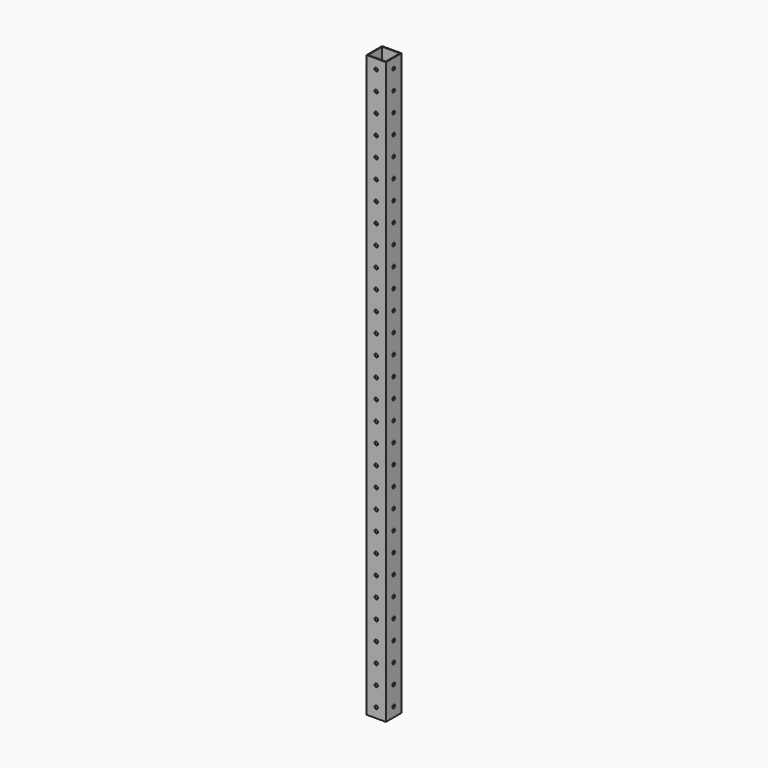
from build123d import *

# Parameters (mm, degrees)
F0_W     = 25.4
F0_H     = 25.4
F0_W_2   = 23.368
F0_H_2   = 23.368
F1_DEPTH = 762
F2_R     = 2.1844
F3_DEPTH = 25.4
F4_R     = 2.1844
F5_DEPTH = 25.4


with BuildPart() as f1:
    # F0 (on Top) → F1 (new body)
    with BuildSketch(Plane.XY):
        with Locations((12.7, -12.7)):
            Rectangle(F0_W, F0_H)
        with Locations((12.7, -12.7)):
            Rectangle(F0_W_2, F0_H_2, mode=Mode.SUBTRACT)
    extrude(amount=F1_DEPTH)

    # F2 (on face) → F3 (cut)
    with BuildSketch(Plane.XZ.offset(25.4)):
        with Locations((12.7, 12.7)):
            Circle(F2_R)
        with Locations((12.7, 38.1)):
            Circle(F2_R)
        with Locations((12.7, 241.3)):
            Circle(F2_R)
        with Locations((12.7, 215.9)):
            Circle(F2_R)
        with Locations((12.7, 190.5)):
            Circle(F2_R)
        with Locations((12.7, 165.1)):
            Circle(F2_R)
        with Locations((12.7, 139.7)):
            Circle(F2_R)
        with Locations((12.7, 114.3)):
            Circle(F2_R)
        with Locations((12.7, 88.9)):
            Circle(F2_R)
        with Locations((12.7, 63.5)):
            Circle(F2_R)
        with Locations((12.7, 266.7)):
            Circle(F2_R)
        with Locations((12.7, 292.1)):
            Circle(F2_R)
        with Locations((12.7, 317.5)):
            Circle(F2_R)
        with Locations((12.7, 342.9)):
            Circle(F2_R)
        with Locations((12.7, 368.3)):
            Circle(F2_R)
        with Locations((12.7, 393.7)):
            Circle(F2_R)
        with Locations((12.7, 419.1)):
            Circle(F2_R)
        with Locations((12.7, 444.5)):
            Circle(F2_R)
        with Locations((12.7, 469.9)):
            Circle(F2_R)
        with Locations((12.7, 495.3)):
            Circle(F2_R)
        with Locations((12.7, 520.7)):
            Circle(F2_R)
        with Locations((12.7, 546.1)):
            Circle(F2_R)
        with Locations((12.7, 571.5)):
            Circle(F2_R)
        with Locations((12.7, 596.9)):
            Circle(F2_R)
        with Locations((12.7, 622.3)):
            Circle(F2_R)
        with Locations((12.7, 647.7)):
            Circle(F2_R)
        with Locations((12.7, 673.1)):
            Circle(F2_R)
        with Locations((12.7, 698.5)):
            Circle(F2_R)
        with Locations((12.7, 723.9)):
            Circle(F2_R)
        with Locations((12.7, 749.3)):
            Circle(F2_R)
    extrude(amount=-F3_DEPTH, mode=Mode.SUBTRACT)

    # F4 (on face) → F5 (cut)
    with BuildSketch(Plane(origin=(0, 0, 0), x_dir=(0, -1, 0), z_dir=(-1, 0, 0))):
        with Locations((12.7, 12.7)):
            Circle(F4_R)
        with Locations((12.7, 38.1)):
            Circle(F4_R)
        with Locations((12.7, 63.5)):
            Circle(F4_R)
        with Locations((12.7, 88.9)):
            Circle(F4_R)
        with Locations((12.7, 114.3)):
            Circle(F4_R)
        with Locations((12.7, 139.7)):
            Circle(F4_R)
        with Locations((12.7, 165.1)):
            Circle(F4_R)
        with Locations((12.7, 190.5)):
            Circle(F4_R)
        with Locations((12.7, 215.9)):
            Circle(F4_R)
        with Locations((12.7, 241.3)):
            Circle(F4_R)
        with Locations((12.7, 266.7)):
            Circle(F4_R)
        with Locations((12.7, 292.1)):
            Circle(F4_R)
        with Locations((12.7, 317.5)):
            Circle(F4_R)
        with Locations((12.7, 342.9)):
            Circle(F4_R)
        with Locations((12.7, 368.3)):
            Circle(F4_R)
        with Locations((12.7, 393.7)):
            Circle(F4_R)
        with Locations((12.7, 419.1)):
            Circle(F4_R)
        with Locations((12.7, 444.5)):
            Circle(F4_R)
        with Locations((12.7, 546.1)):
            Circle(F4_R)
        with Locations((12.7, 520.7)):
            Circle(F4_R)
        with Locations((12.7, 495.3)):
            Circle(F4_R)
        with Locations((12.7, 469.9)):
            Circle(F4_R)
        with Locations((12.7, 571.5)):
            Circle(F4_R)
        with Locations((12.7, 596.9)):
            Circle(F4_R)
        with Locations((12.7, 622.3)):
            Circle(F4_R)
        with Locations((12.7, 647.7)):
            Circle(F4_R)
        with Locations((12.7, 673.1)):
            Circle(F4_R)
        with Locations((12.7, 698.5)):
            Circle(F4_R)
        with Locations((12.7, 723.9)):
            Circle(F4_R)
        with Locations((12.7, 749.3)):
            Circle(F4_R)
    extrude(amount=-F5_DEPTH, mode=Mode.SUBTRACT)


solid = f1.part
